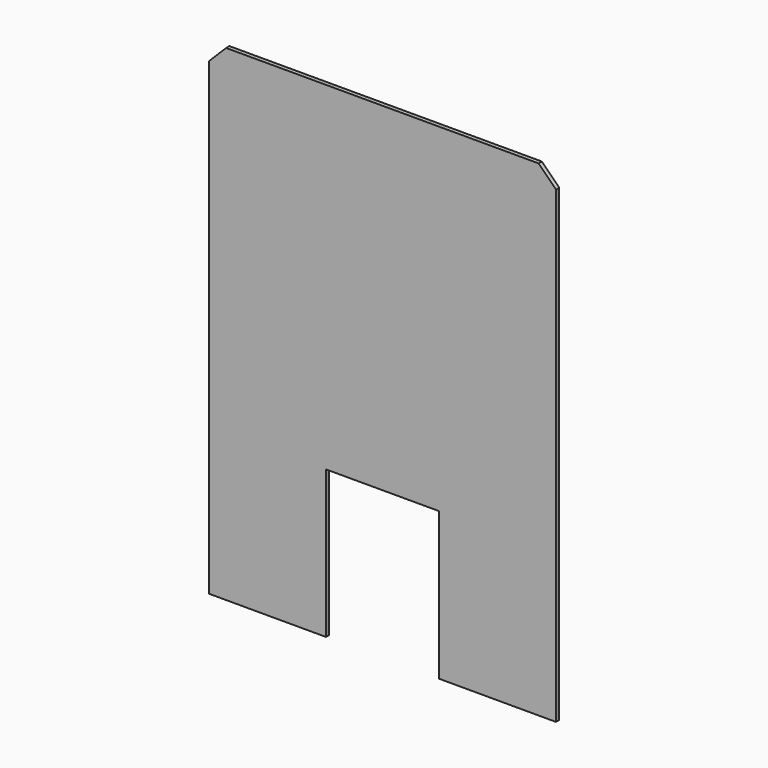
from build123d import *

# Parameters (mm, degrees)
F1_DEPTH = 0.7493
F2_SIZE  = 6.35


with BuildPart() as f1:
    # F0 (on Front) → F1 (new body, symmetric)
    with BuildSketch(Plane.XZ):
        Polygon((63.5, -88.9), (63.5, 88.9), (-63.5, 88.9), (-63.5, -88.9), (-20.6375, -88.9), (-20.6375, -34.925), (20.6375, -34.925), (20.6375, -88.9), align=None)
    extrude(amount=F1_DEPTH, both=True)

    # F2
    f2_edges = [f1.edges().sort_by_distance(p)[0] for p in [
        (63.5, 0, 88.9),
        (-63.5, 0, 88.9),
    ]]
    chamfer(f2_edges, length=F2_SIZE)


solid = f1.part
